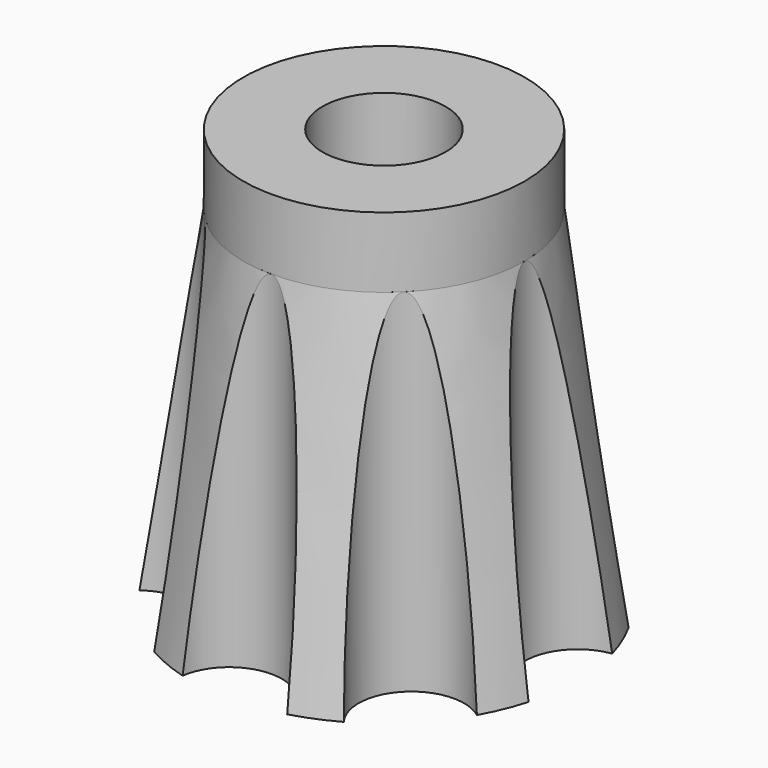
from build123d import *

# Parameters (mm, degrees)
CYLINDER030_R         = 8
CYLINDER030_DEPTH     = 4
CYLINDER056_R         = 3
CYLINDER056_DEPTH     = 20
POLARPATTERN011_COUNT = 8
CYLINDER057_R         = 3.5
CYLINDER057_DEPTH     = 24


with BuildPart() as part:
    # Cone → Cone (revolve)
    with BuildSketch(Plane.XZ):
        Polygon((0, 0), (11, 0), (8, 20), (0, 20), align=None)
    revolve(axis=Axis((0, 0, 0), (0, 0, 1)))

    # Cylinder030 → Cylinder030 (join)
    with BuildSketch(Plane.XY.offset(20)):
        Circle(CYLINDER030_R)
    extrude(amount=CYLINDER030_DEPTH)

    # Cylinder056 → Cylinder056 (cut)
    with BuildSketch(Plane(origin=(11, 0, 0), x_dir=(1, 0, 0), z_dir=(0, 0, 1))):
        Circle(CYLINDER056_R)
    cylinder056 = extrude(amount=CYLINDER056_DEPTH, mode=Mode.SUBTRACT)

    # PolarPattern011: Cylinder056 ×8 about axis
    polarpattern011_axis = Axis((0, 0, 0), (0, 0, 1))
    for i in range(1, POLARPATTERN011_COUNT):
        add(cylinder056.rotate(polarpattern011_axis, i * 360 / POLARPATTERN011_COUNT), mode=Mode.SUBTRACT)

    # Cylinder057 → Cylinder057 (cut)
    with BuildSketch(Plane.XY):
        Circle(CYLINDER057_R)
    extrude(amount=CYLINDER057_DEPTH, mode=Mode.SUBTRACT)


with BuildPart() as part_1:
    # Body017 placement: moved
    add(part.part.moved(Location((-38, 0, 0))))


solid = part_1.part
